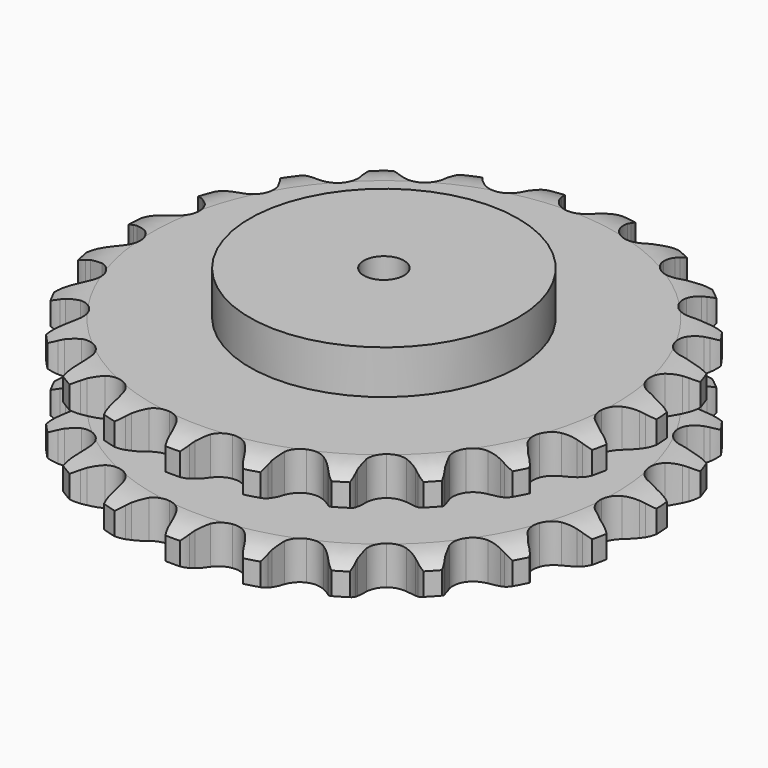
from build123d import *

# Parameters (mm, degrees)
PAD_DEPTH         = 87.4
SKETCH001_R       = 100
PAD001_DEPTH      = 120
SKETCH002_R       = 15
POCKET_DEPTH      = 0.001
POCKET_DEPTH_BACK = 120.001


with BuildPart() as part:
    # Sprocket → Pad (new body)
    with BuildSketch(Plane.XY):
        with BuildLine():
            ThreePointArc((-27.67133, 201.323879), (-22.048396, 196.405943), (-18.204202, 190.000816))
            Line((-18.204202, 190.000816), (-16.788089, 186.503458))
            ThreePointArc((-16.788089, 186.503458), (-14.527407, 181.85495), (-11.658071, 177.55539))
            ThreePointArc((-11.658071, 177.55539), (-6.496253, 173.331472), (0, 171.820007))
            ThreePointArc((0, 171.820007), (6.496253, 173.331472), (11.658071, 177.55539))
            ThreePointArc((11.658071, 177.55539), (14.527407, 181.85495), (16.788089, 186.503458))
            Line((16.788089, 186.503458), (18.204202, 190.000816))
            ThreePointArc((18.204202, 190.000816), (22.048396, 196.405943), (27.67133, 201.323879))
            ThreePointArc((27.67133, 201.323879), (31.758907, 195.071264), (33.732466, 187.866505))
            Line((33.732466, 187.866505), (34.152489, 184.116776))
            ThreePointArc((34.152489, 184.116776), (35.075187, 179.030723), (36.678113, 174.116464))
            ThreePointArc((36.678113, 174.116464), (40.508917, 168.656539), (46.356483, 165.448455))
            ThreePointArc((46.356483, 165.448455), (53.019626, 165.151203), (59.129629, 167.825845))
            Line((59.129629, 167.825845), (66.483572, 175.058032))
            ThreePointArc((66.483572, 175.058032), (67.600162, 176.579424), (68.790747, 178.043635))
            ThreePointArc((68.790747, 178.043635), (74.220471, 183.174092), (80.961735, 186.392608))
            ThreePointArc((80.961735, 186.392608), (83.210798, 179.269041), (83.167351, 171.798995))
            Line((83.167351, 171.798995), (82.560134, 168.074995))
            ThreePointArc((82.560134, 168.074995), (82.076415, 162.928606), (82.294049, 157.764117))
            ThreePointArc((82.294049, 157.764117), (84.509726, 151.473122), (89.274918, 146.806348))
            ThreePointArc((89.274918, 146.806348), (95.610776, 144.722425), (102.215813, 145.649424))
            Line((102.215813, 145.649424), (111.248273, 150.629352))
            ThreePointArc((111.248273, 150.629352), (112.733923, 151.793074), (114.275397, 152.881773))
            ThreePointArc((114.275397, 152.881773), (120.887953, 156.357056), (128.247578, 157.63745))
            ThreePointArc((128.247578, 157.63745), (128.491325, 150.171254), (126.434094, 142.989939))
            Line((126.434094, 142.989939), (124.844671, 139.567861))
            ThreePointArc((124.844671, 139.567861), (122.990411, 134.742819), (121.806612, 129.711127))
            ThreePointArc((121.806612, 129.711127), (122.242836, 123.055637), (125.57224, 117.276286))
            ThreePointArc((125.57224, 117.276286), (131.110912, 113.560246), (137.721117, 112.670852))
            Line((137.721117, 112.670852), (147.762198, 115.029182))
            ThreePointArc((147.762198, 115.029182), (149.506725, 115.748927), (151.284764, 116.381369))
            ThreePointArc((151.284764, 116.381369), (158.589729, 117.943733), (166.021885, 117.191043))
            ThreePointArc((166.021885, 117.191043), (164.242237, 109.935953), (160.323799, 103.575974))
            Line((160.323799, 103.575974), (157.870051, 100.709617))
            ThreePointArc((157.870051, 100.709617), (154.78277, 96.563774), (152.285335, 92.038056))
            ThreePointArc((152.285335, 92.038056), (150.909753, 85.511678), (152.556444, 79.048378))
            ThreePointArc((152.556444, 79.048378), (156.887151, 73.975823), (163.012277, 71.335999))
            Line((163.012277, 71.335999), (173.317277, 70.897824))
            ThreePointArc((173.317277, 70.897824), (175.191297, 71.120211), (177.074032, 71.249491))
            ThreePointArc((177.074032, 71.249491), (184.52963, 70.783063), (191.483108, 68.053113))
            ThreePointArc((191.483108, 68.053113), (187.812055, 61.547204), (182.323021, 56.480253))
            Line((182.323021, 56.480253), (179.18693, 54.382201))
            ThreePointArc((179.18693, 54.382201), (175.0956, 51.223036), (171.469752, 47.538943))
            ThreePointArc((171.469752, 47.538943), (168.384385, 41.625709), (168.226235, 34.957814))
            ThreePointArc((168.226235, 34.957814), (171.027788, 28.904952), (176.213561, 24.71048))
            Line((176.213561, 24.71048), (186.018206, 21.508299))
            ThreePointArc((186.018206, 21.508299), (187.882731, 21.216835), (189.73053, 20.833364))
            ThreePointArc((189.73053, 20.833364), (196.783812, 18.372736), (202.742905, 13.867995))
            ThreePointArc((202.742905, 13.867995), (197.452711, 8.593781), (190.800179, 5.195649))
            Line((190.800179, 5.195649), (187.214335, 4.021506))
            ThreePointArc((187.214335, 4.021506), (182.42239, 2.083319), (177.937042, -0.485915))
            ThreePointArc((177.937042, -0.485915), (173.370717, -5.347449), (171.419455, -11.725412))
            ThreePointArc((171.419455, -11.725412), (172.484077, -18.309667), (176.345892, -23.747701))
            Line((176.345892, -23.747701), (184.923016, -29.476399))
            ThreePointArc((184.923016, -29.476399), (186.639764, -30.260098), (188.315581, -31.127878))
            ThreePointArc((188.315581, -31.127878), (194.44344, -35.400212), (198.966188, -41.345649))
            ThreePointArc((198.966188, -41.345649), (192.449203, -44.997004), (185.12656, -46.474292))
            Line((185.12656, -46.474292), (181.356909, -46.637445))
            ThreePointArc((181.356909, -46.637445), (176.219746, -47.210907), (171.207556, -48.474736))
            ThreePointArc((171.207556, -48.474736), (165.498936, -51.924011), (161.899278, -57.539017))
            ThreePointArc((161.899278, -57.539017), (161.14801, -64.166342), (163.399455, -70.444624))
            Line((163.399455, -70.444624), (170.112932, -78.274966))
            ThreePointArc((170.112932, -78.274966), (171.554578, -79.492777), (172.934128, -80.780507))
            ThreePointArc((172.934128, -80.780507), (177.682086, -86.547688), (180.43306, -93.492876))
            ThreePointArc((180.43306, -93.492876), (173.172618, -95.250567), (165.722951, -94.697447))
            Line((165.722951, -94.697447), (162.049071, -93.837511))
            ThreePointArc((162.049071, -93.837511), (156.947689, -93.003717), (151.780388, -92.868407))
            ThreePointArc((151.780388, -92.868407), (145.352856, -94.649606), (140.371773, -99.085217))
            ThreePointArc((140.371773, -99.085217), (137.860333, -105.264093), (138.334428, -111.916992))
            Line((138.334428, -111.916992), (142.686349, -121.268238))
            ThreePointArc((142.686349, -121.268238), (143.745975, -122.82984), (144.726941, -124.442016))
            ThreePointArc((144.726941, -124.442016), (147.742866, -131.276318), (148.518036, -138.706163))
            ThreePointArc((148.518036, -138.706163), (141.052613, -138.43983), (134.028429, -135.897326))
            Line((134.028429, -135.897326), (130.722794, -134.078077))
            ThreePointArc((130.722794, -134.078077), (126.03554, -131.898867), (121.096363, -130.374453))
            ThreePointArc((121.096363, -130.374453), (114.42662, -130.355473), (108.433535, -133.282719))
            ThreePointArc((108.433535, -133.282719), (104.348186, -138.554887), (103.009769, -145.088988))
            Line((103.009769, -145.088988), (104.677374, -155.267599))
            ThreePointArc((104.677374, -155.267599), (105.27639, -157.057176), (105.786019, -158.87423))
            ThreePointArc((105.786019, -158.87423), (106.846233, -166.268784), (105.58811, -173.632249))
            ThreePointArc((105.58811, -173.632249), (98.47138, -171.361645), (92.393631, -167.018322))
            Line((92.393631, -167.018322), (89.701406, -164.374686))
            ThreePointArc((89.701406, -164.374686), (85.775912, -161.011681), (81.431175, -158.211222))
            ThreePointArc((81.431175, -158.211222), (75.013884, -156.393471), (68.453278, -157.595252))
            ThreePointArc((68.453278, -157.595252), (63.097011, -161.5697), (60.045347, -167.500398))
            Line((60.045347, -167.500398), (58.904956, -177.751473))
            ThreePointArc((58.904956, -177.751473), (58.998937, -179.6363), (58.999433, -181.523469))
            ThreePointArc((58.999433, -181.523469), (58.025304, -188.929856), (54.827196, -195.680825))
            ThreePointArc((54.827196, -195.680825), (48.586975, -191.574351), (43.906421, -185.752333))
            Line((43.906421, -185.752333), (42.027275, -182.480377))
            ThreePointArc((42.027275, -182.480377), (39.154677, -178.182995), (35.726609, -174.314189))
            ThreePointArc((35.726609, -174.314189), (30.037713, -170.832481), (23.396155, -170.219666))
            ThreePointArc((23.396155, -170.219666), (17.166219, -172.601627), (12.627636, -177.48907))
            Line((12.627636, -177.48907), (8.763827, -187.052333))
            ThreePointArc((8.763827, -187.052333), (8.345802, -188.892621), (7.837128, -190.709943))
            ThreePointArc((7.837128, -190.709943), (4.900903, -197.578864), (0, -203.21665))
            ThreePointArc((0, -203.21665), (-4.900903, -197.578864), (-7.837128, -190.709943))
            Line((-7.837128, -190.709943), (-8.763827, -187.052333))
            ThreePointArc((-8.763827, -187.052333), (-10.370481, -182.139292), (-12.627636, -177.48907))
            ThreePointArc((-12.627636, -177.48907), (-17.166219, -172.601627), (-23.396155, -170.219666))
            ThreePointArc((-23.396155, -170.219666), (-30.037713, -170.832481), (-35.726609, -174.314189))
            Line((-35.726609, -174.314189), (-42.027275, -182.480377))
            ThreePointArc((-42.027275, -182.480377), (-42.926302, -184.139641), (-43.906421, -185.752333))
            ThreePointArc((-43.906421, -185.752333), (-48.586975, -191.574351), (-54.827196, -195.680825))
            ThreePointArc((-54.827196, -195.680825), (-58.025304, -188.929856), (-58.999433, -181.523469))
            Line((-58.999433, -181.523469), (-58.904956, -177.751473))
            ThreePointArc((-58.904956, -177.751473), (-59.126509, -172.58715), (-60.045347, -167.500398))
            ThreePointArc((-60.045347, -167.500398), (-63.097011, -161.5697), (-68.453278, -157.595252))
            ThreePointArc((-68.453278, -157.595252), (-75.013884, -156.393471), (-81.431175, -158.211222))
            Line((-81.431175, -158.211222), (-89.701406, -164.374686))
            ThreePointArc((-89.701406, -164.374686), (-91.014759, -165.729866), (-92.393631, -167.018322))
            ThreePointArc((-92.393631, -167.018322), (-98.47138, -171.361645), (-105.58811, -173.632249))
            ThreePointArc((-105.58811, -173.632249), (-106.846233, -166.268784), (-105.786019, -158.87423))
            Line((-105.786019, -158.87423), (-104.677374, -155.267599))
            ThreePointArc((-104.677374, -155.267599), (-103.497393, -150.23501), (-103.009769, -145.088988))
            ThreePointArc((-103.009769, -145.088988), (-104.348186, -138.554887), (-108.433535, -133.282719))
            ThreePointArc((-108.433535, -133.282719), (-114.42662, -130.355473), (-121.096363, -130.374453))
            Line((-121.096363, -130.374453), (-130.722794, -134.078077))
            ThreePointArc((-130.722794, -134.078077), (-132.353068, -135.028665), (-134.028429, -135.897326))
            ThreePointArc((-134.028429, -135.897326), (-141.052613, -138.43983), (-148.518036, -138.706163))
            ThreePointArc((-148.518036, -138.706163), (-147.742866, -131.276318), (-144.726941, -124.442016))
            Line((-144.726941, -124.442016), (-142.686349, -121.268238))
            ThreePointArc((-142.686349, -121.268238), (-140.19235, -116.740625), (-138.334428, -111.916992))
            ThreePointArc((-138.334428, -111.916992), (-137.860333, -105.264093), (-140.371773, -99.085217))
            ThreePointArc((-140.371773, -99.085217), (-145.352856, -94.649606), (-151.780388, -92.868407))
            Line((-151.780388, -92.868407), (-162.049071, -93.837511))
            ThreePointArc((-162.049071, -93.837511), (-163.875355, -94.313005), (-165.722951, -94.697447))
            ThreePointArc((-165.722951, -94.697447), (-173.172618, -95.250567), (-180.43306, -93.492876))
            ThreePointArc((-180.43306, -93.492876), (-177.682086, -86.547688), (-172.934128, -80.780507))
            Line((-172.934128, -80.780507), (-170.112932, -78.274966))
            ThreePointArc((-170.112932, -78.274966), (-166.489881, -74.588123), (-163.399455, -70.444624))
            ThreePointArc((-163.399455, -70.444624), (-161.14801, -64.166342), (-161.899278, -57.539017))
            ThreePointArc((-161.899278, -57.539017), (-165.498936, -51.924011), (-171.207556, -48.474736))
            Line((-171.207556, -48.474736), (-181.356909, -46.637445))
            ThreePointArc((-181.356909, -46.637445), (-183.243756, -46.602582), (-185.12656, -46.474292))
            ThreePointArc((-185.12656, -46.474292), (-192.449203, -44.997004), (-198.966188, -41.345649))
            ThreePointArc((-198.966188, -41.345649), (-194.44344, -35.400212), (-188.315581, -31.127878))
            Line((-188.315581, -31.127878), (-184.923016, -29.476399))
            ThreePointArc((-184.923016, -29.476399), (-180.439619, -26.903761), (-176.345892, -23.747701))
            ThreePointArc((-176.345892, -23.747701), (-172.484077, -18.309667), (-171.419455, -11.725412))
            ThreePointArc((-171.419455, -11.725412), (-173.370717, -5.347449), (-177.937042, -0.485915))
            Line((-177.937042, -0.485915), (-187.214335, 4.021506))
            ThreePointArc((-187.214335, 4.021506), (-189.021807, 4.564142), (-190.800179, 5.195649))
            ThreePointArc((-190.800179, 5.195649), (-197.452711, 8.593781), (-202.742905, 13.867995))
            ThreePointArc((-202.742905, 13.867995), (-196.783812, 18.372736), (-189.73053, 20.833364))
            Line((-189.73053, 20.833364), (-186.018206, 21.508299))
            ThreePointArc((-186.018206, 21.508299), (-181.006976, 22.77593), (-176.213561, 24.71048))
            ThreePointArc((-176.213561, 24.71048), (-171.027788, 28.904952), (-168.226235, 34.957814))
            ThreePointArc((-168.226235, 34.957814), (-168.384385, 41.625709), (-171.469752, 47.538943))
            Line((-171.469752, 47.538943), (-179.18693, 54.382201))
            ThreePointArc((-179.18693, 54.382201), (-180.780975, 55.392365), (-182.323021, 56.480253))
            ThreePointArc((-182.323021, 56.480253), (-187.812055, 61.547204), (-191.483108, 68.053113))
            ThreePointArc((-191.483108, 68.053113), (-184.52963, 70.783063), (-177.074032, 71.249491))
            Line((-177.074032, 71.249491), (-173.317277, 70.897824))
            ThreePointArc((-173.317277, 70.897824), (-168.149874, 70.766435), (-163.012277, 71.335999))
            ThreePointArc((-163.012277, 71.335999), (-156.887151, 73.975823), (-152.556444, 79.048378))
            ThreePointArc((-152.556444, 79.048378), (-150.909753, 85.511678), (-152.285335, 92.038056))
            Line((-152.285335, 92.038056), (-157.870051, 100.709617))
            ThreePointArc((-157.870051, 100.709617), (-159.132445, 102.112389), (-160.323799, 103.575974))
            ThreePointArc((-160.323799, 103.575974), (-164.242237, 109.935953), (-166.021885, 117.191043))
            ThreePointArc((-166.021885, 117.191043), (-158.589729, 117.943733), (-151.284764, 116.381369))
            Line((-151.284764, 116.381369), (-147.762198, 115.029182))
            ThreePointArc((-147.762198, 115.029182), (-142.821865, 113.508517), (-137.721117, 112.670852))
            ThreePointArc((-137.721117, 112.670852), (-131.110912, 113.560246), (-125.57224, 117.276286))
            ThreePointArc((-125.57224, 117.276286), (-122.242836, 123.055637), (-121.806612, 129.711127))
            Line((-121.806612, 129.711127), (-124.844671, 139.567861))
            ThreePointArc((-124.844671, 139.567861), (-125.681789, 141.259204), (-126.434094, 142.989939))
            ThreePointArc((-126.434094, 142.989939), (-128.491325, 150.171254), (-128.247578, 157.63745))
            ThreePointArc((-128.247578, 157.63745), (-120.887953, 156.357056), (-114.275397, 152.881773))
            Line((-114.275397, 152.881773), (-111.248273, 150.629352))
            ThreePointArc((-111.248273, 150.629352), (-106.901412, 147.832191), (-102.215813, 145.649424))
            ThreePointArc((-102.215813, 145.649424), (-95.610776, 144.722425), (-89.274918, 146.806348))
            ThreePointArc((-89.274918, 146.806348), (-84.509726, 151.473122), (-82.294049, 157.764117))
            Line((-82.294049, 157.764117), (-82.560134, 168.074995))
            ThreePointArc((-82.560134, 168.074995), (-82.90989, 169.92947), (-83.167351, 171.798995))
            ThreePointArc((-83.167351, 171.798995), (-83.210798, 179.269041), (-80.961735, 186.392608))
            ThreePointArc((-80.961735, 186.392608), (-74.220471, 183.174092), (-68.790747, 178.043635))
            Line((-68.790747, 178.043635), (-66.483572, 175.058032))
            ThreePointArc((-66.483572, 175.058032), (-63.05257, 171.191828), (-59.129629, 167.825845))
            ThreePointArc((-59.129629, 167.825845), (-53.019626, 165.151203), (-46.356483, 165.448455))
            ThreePointArc((-46.356483, 165.448455), (-40.508917, 168.656539), (-36.678113, 174.116464))
            Line((-36.678113, 174.116464), (-34.152489, 184.116776))
            ThreePointArc((-34.152489, 184.116776), (-33.988944, 185.996845), (-33.732466, 187.866505))
            ThreePointArc((-33.732466, 187.866505), (-31.758907, 195.071264), (-27.67133, 201.323879))
        make_face()
    extrude(amount=PAD_DEPTH)

    # Sketch → Groove (revolve, cut)
    with BuildSketch(Plane.XZ):
        with BuildLine():
            ThreePointArc((172.8, 0), (185.169317, 1.522732), (196.8, 6))
            Line((196.8, 6), (196.8, 22.8))
            ThreePointArc((196.8, 22.8), (185.169317, 27.277268), (172.8, 28.8))
            Line((100, 28.8), (172.8, 28.8))
            Line((100, 58.6), (100, 28.8))
            Line((172.8, 58.6), (100, 58.6))
            ThreePointArc((172.8, 58.6), (185.169317, 60.122732), (196.8, 64.6))
            Line((196.8, 64.6), (196.8, 81.4))
            ThreePointArc((196.8, 81.4), (185.169317, 85.877268), (172.8, 87.4))
            Line((172.8, 87.4), (206.8, 87.4))
            Line((206.8, 87.4), (206.8, 0))
            Line((172.8, 0), (206.8, 0))
        make_face()
    revolve(axis=Axis((0, 0, 0), (0, 0, 1)), mode=Mode.SUBTRACT)

    # Sketch001 → Pad001 (join)
    with BuildSketch(Plane.XY):
        Circle(SKETCH001_R)
    extrude(amount=PAD001_DEPTH)

    # Sketch002 → Pocket (cut, two sides)
    with BuildSketch(Plane.XY) as pocket_sk:
        Circle(SKETCH002_R)
    extrude(amount=-POCKET_DEPTH, mode=Mode.SUBTRACT)
    extrude(pocket_sk.sketch, amount=POCKET_DEPTH_BACK, mode=Mode.SUBTRACT)


solid = part.part
